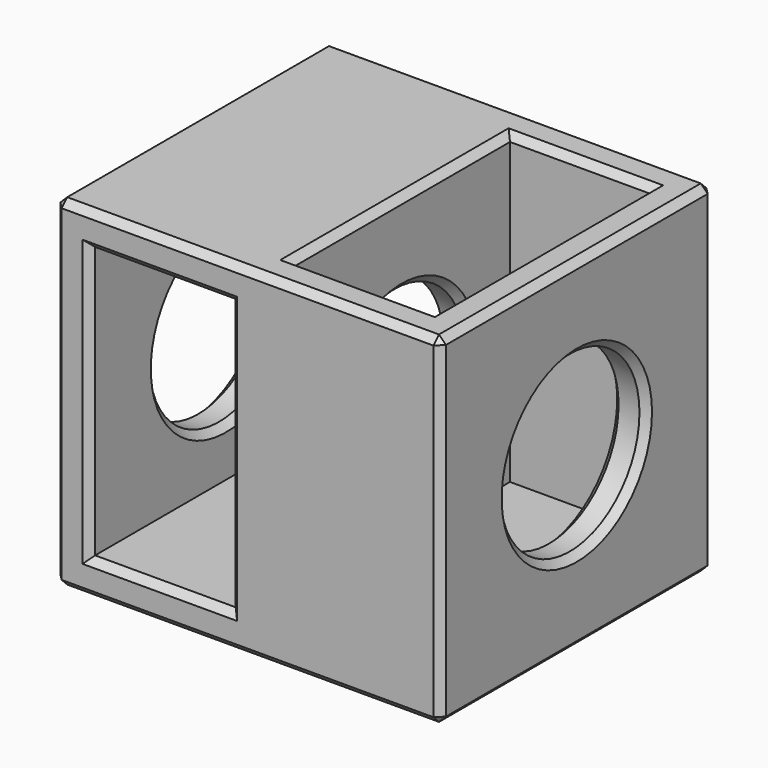
from build123d import *

# Parameters (mm, degrees)
SKETCH_W             = 55.4
SKETCH_H             = 49
PAD_DEPTH            = 24.5
SKETCH001_W          = 20.2
SKETCH001_H          = 39
POCKET_DEPTH         = 49
SKETCH002_W          = 20.2
SKETCH002_H          = 39
POCKET001_DEPTH      = 24.501
POCKET001_DEPTH_BACK = 24.501
SKETCH003_R          = 12.5
POCKET002_DEPTH      = 27.701
POCKET002_DEPTH_BACK = 27.701
CHAMFER_SIZE         = 1


with BuildPart() as part:
    # Sketch → Pad (new body, symmetric)
    with BuildSketch(Plane.XY):
        Rectangle(SKETCH_W, SKETCH_H)
    extrude(amount=PAD_DEPTH, both=True)

    # Sketch001 → Pocket (cut)
    with BuildSketch(Plane.XY.offset(29.5)):
        with Locations((12.6, 0)):
            Rectangle(SKETCH001_W, SKETCH001_H)
    extrude(amount=-POCKET_DEPTH, mode=Mode.SUBTRACT)

    # Sketch002 → Pocket001 (cut, two sides)
    with BuildSketch(Plane.XZ) as pocket001_sk:
        with Locations((-12.6, 0)):
            Rectangle(SKETCH002_W, SKETCH002_H)
    extrude(amount=-POCKET001_DEPTH, mode=Mode.SUBTRACT)
    extrude(pocket001_sk.sketch, amount=POCKET001_DEPTH_BACK, mode=Mode.SUBTRACT)

    # Sketch003 → Pocket002 (cut, two sides)
    with BuildSketch(Plane.YZ) as pocket002_sk:
        Circle(SKETCH003_R)
    extrude(amount=-POCKET002_DEPTH, mode=Mode.SUBTRACT)
    extrude(pocket002_sk.sketch, amount=POCKET002_DEPTH_BACK, mode=Mode.SUBTRACT)

    # Chamfer
    chamfer_edges = [part.edges().sort_by_distance(p)[0] for p in [
        (0, -24.5, 24.5),
        (-27.7, -24.5, 0),
        (0, -24.5, -24.5),
        (-12.6, -24.5, -19.5),
        (-22.7, -24.5, 0),
        (-12.6, -24.5, 19.5),
        (-2.5, -24.5, 0),
        (27.7, -24.5, 0),
        (27.7, 0, 24.5),
        (27.7, -12.5, 0),
        (27.7, 0, -24.5),
        (27.7, 24.5, 0),
        (22.7, 0, 24.5),
        (12.6, -19.5, 24.5),
        (2.5, 0, 24.5),
        (12.6, 19.5, 24.5),
        (-27.7, 0, 24.5),
        (0, 24.5, 24.5),
        (2.5, -12.5, 0),
        (22.7, -12.5, 0),
        (0, 24.5, -24.5),
        (-2.5, 24.5, 0),
        (-12.6, 24.5, -19.5),
        (-22.7, 24.5, 0),
        (-12.6, 24.5, 19.5),
        (-27.7, 24.5, 0),
        (-27.7, 0, -24.5),
        (-27.7, -12.5, 0),
        (-22.7, -12.5, 0),
        (-2.5, -12.5, 0),
    ]]
    chamfer(chamfer_edges, length=CHAMFER_SIZE)


solid = part.part
